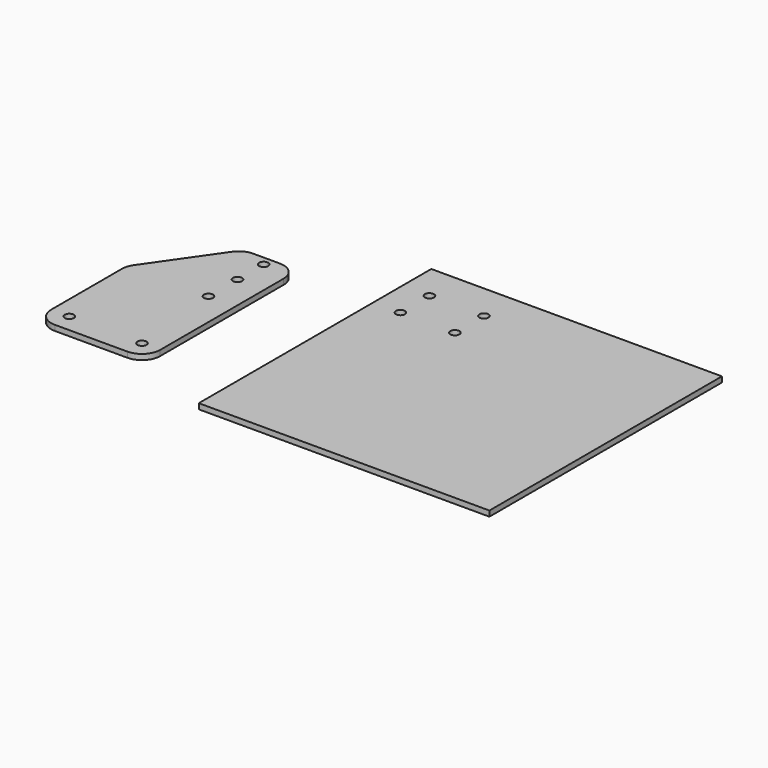
from build123d import *

# Parameters (mm, degrees)
F0_R     = 2.5
F1_DEPTH = 3
F2_R     = 10
F3_W     = 160
F3_H     = 160
F3_R     = 2.5
F4_DEPTH = 3


with BuildPart() as f1:
    # F0 (on Top) → F1 (new body)
    with BuildSketch(Plane.XY):
        Polygon((26.57078, 48.533842), (-3.42922, 48.533842), (-33.42922, 5.455991), (-33.42922, -56.466158), (26.57078, -56.466158), align=None)
        with Locations((-23.42922, -46.466158)):
            Circle(F0_R, mode=Mode.SUBTRACT)
        with Locations((16.57078, -46.466158)):
            Circle(F0_R, mode=Mode.SUBTRACT)
        with Locations((11.57078, 5.533842)):
            Circle(F0_R, mode=Mode.SUBTRACT)
        with Locations((11.57078, 25.533842)):
            Circle(F0_R, mode=Mode.SUBTRACT)
        with Locations((11.57078, 43.533842)):
            Circle(F0_R, mode=Mode.SUBTRACT)
    extrude(amount=F1_DEPTH)

    # F2
    f2_edges = [f1.edges().sort_by_distance(p)[0] for p in [
        (26.57078, 48.533842, 1.5),
        (-3.42922, 48.533842, 1.5),
        (26.57078, -56.466158, 1.5),
        (-33.42922, -56.466158, 1.5),
        (-33.42922, 5.455991, 1.5),
    ]]
    fillet(f2_edges, radius=F2_R)


with BuildPart() as f4:
    # F3 (on Top) → F4 (new body)
    with BuildSketch(Plane.XY):
        with Locations((150.504651, 5.21178)):
            Rectangle(F3_W, F3_H)
        with Locations((115.504651, 45.21178)):
            Circle(F3_R, mode=Mode.SUBTRACT)
        with Locations((85.504651, 45.21178)):
            Circle(F3_R, mode=Mode.SUBTRACT)
        with Locations((85.504651, 65.21178)):
            Circle(F3_R, mode=Mode.SUBTRACT)
        with Locations((115.504651, 65.21178)):
            Circle(F3_R, mode=Mode.SUBTRACT)
    extrude(amount=F4_DEPTH)


solid = Compound([f1.part, f4.part])
